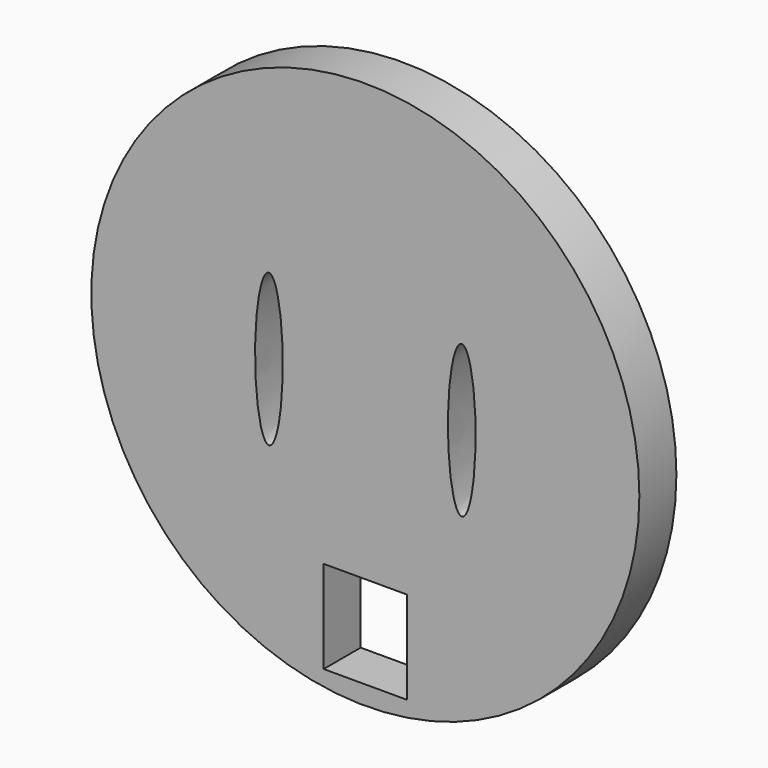
from build123d import *

# Parameters (mm, degrees)
F0_R     = 375.724351
F0_W     = 114.3
F0_H     = 127
F1_DEPTH = 63.5


with BuildPart() as f1:
    # F0 (on Front) → F1 (new body)
    with BuildSketch(Plane.XZ):
        with Locations((0, 360.063826)):
            Circle(F0_R)
        with Locations((0, 73.789552)):
            Rectangle(F0_W, F0_H, mode=Mode.SUBTRACT)
        with BuildLine():
            add(Edge.make_bspline(
                [(-132.206574, 464.203826), (-165.202142, 464.203826), (-148.704358, 307.993826), (-132.206574, 151.783826), (-115.70879, 307.993826), (-99.211006, 464.203826), (-132.206574, 464.203826)],
                knots=[0, 0, 0, 2.094395, 2.094395, 4.18879, 4.18879, 6.283185, 6.283185, 6.283185], degree=2, weights=[1, 0.5, 1, 0.5, 1, 0.5, 1]))
        make_face(mode=Mode.SUBTRACT)
        with BuildLine():
            add(Edge.make_bspline(
                [(132.206574, 464.203826), (99.211006, 464.203826), (115.70879, 307.993826), (132.206574, 151.783826), (148.704358, 307.993826), (165.202142, 464.203826), (132.206574, 464.203826)],
                knots=[0, 0, 0, 2.094395, 2.094395, 4.18879, 4.18879, 6.283185, 6.283185, 6.283185], degree=2, weights=[1, 0.5, 1, 0.5, 1, 0.5, 1]))
        make_face(mode=Mode.SUBTRACT)
    extrude(amount=F1_DEPTH)


solid = f1.part
